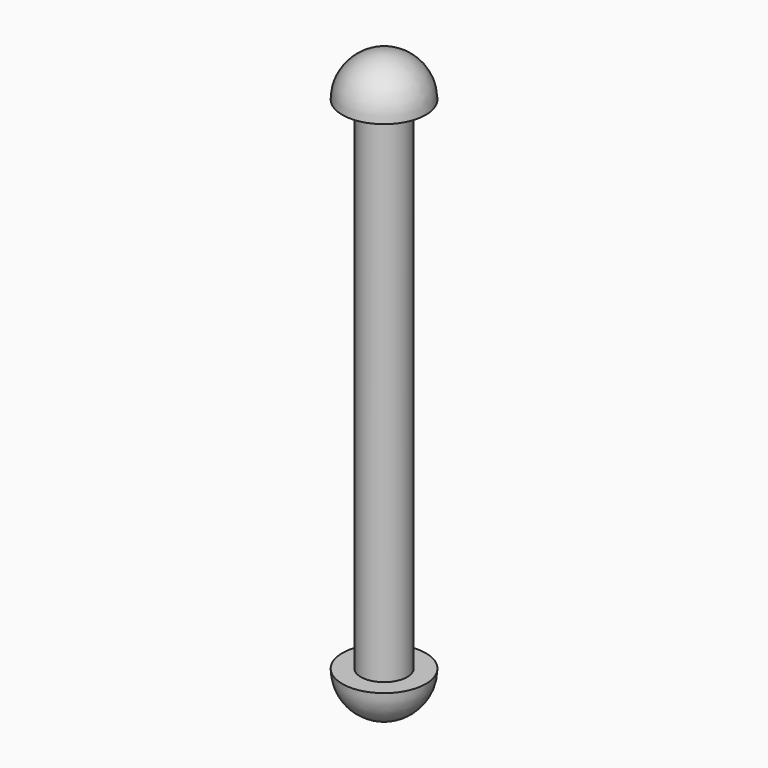
from build123d import *


with BuildPart() as f1:
    # F0 (on Front) → F1 (revolve)
    with BuildSketch(Plane.XZ):
        with BuildLine():
            Line((0, 80.01), (0, 0))
            ThreePointArc((0, 0), (4.041115, 1.673885), (5.715, 5.715))
            Line((5.715, 5.715), (3.175, 5.715))
            Line((3.175, 5.715), (3.175, 74.295))
            Line((3.175, 74.295), (5.715, 74.295))
            ThreePointArc((5.715, 74.295), (4.041115, 78.336115), (0, 80.01))
        make_face()
    revolve(axis=Axis((0, 0, 40.005), (0, 0, 1)))


solid = f1.part
